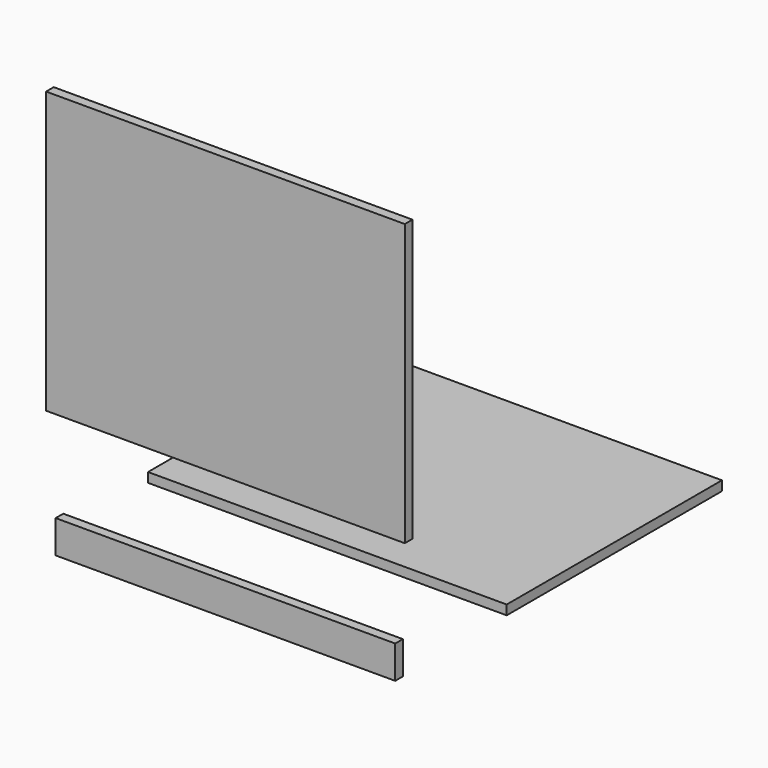
from build123d import *

# Parameters (mm, degrees)
F1_W     = 568
F1_H     = 55
F2_DEPTH = 16
F3_W     = 600
F3_H     = 450
F4_DEPTH = 16
F5_W     = 600
F5_H     = 470
F6_DEPTH = 16


with BuildPart() as f2:
    # F1 (on Front) → F2 (new body)
    with BuildSketch(Plane.XZ):
        with Locations((0, 12.4838852164)):
            Rectangle(F1_W, F1_H)
    extrude(amount=F2_DEPTH)


with BuildPart() as f4:
    # F3 (on Top) → F4 (new body)
    with BuildSketch(Plane.XY):
        with Locations((0, 422.1297264099)):
            Rectangle(F3_W, F3_H)
    extrude(amount=F4_DEPTH)


with BuildPart() as f6:
    # F5 (on Front) → F6 (new body)
    with BuildSketch(Plane.XZ):
        with Locations((0, 427.887455225)):
            Rectangle(F5_W, F5_H)
    extrude(amount=F6_DEPTH)


solid = Compound([f2.part, f4.part, f6.part])
